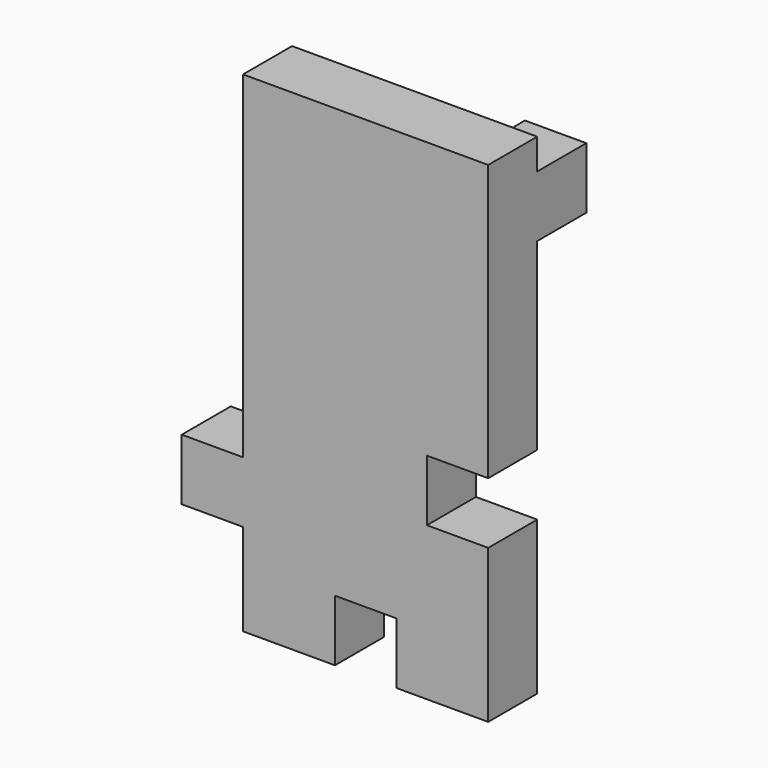
from build123d import *

# Parameters (mm, degrees)
F0_W     = 6.35
F0_H     = 6.35
F1_DEPTH = 6.35
F2_DEPTH = 6.35


with BuildPart() as f1:
    # F0 (on Front) → F1 (new body)
    with BuildSketch(Plane.XZ):
        Polygon((10.91065, 25.4), (-1.78935, 25.4), (-14.48935, 25.4), (-14.48935, 12.7), (-14.48935, 5.734982), (-14.48935, 0), (-14.48935, -9.525), (-20.83935, -9.525), (-20.83935, -15.875), (-14.48935, -15.875), (-14.48935, -25.4), (-4.96435, -25.4), (-4.96435, -19.05), (1.38565, -19.05), (1.38565, -25.4), (10.91065, -25.4), (10.91065, -15.875), (10.91065, -9.525), (4.56065, -9.525), (4.56065, -3.175), (10.91065, -3.175), (10.91065, 0), (10.91065, 15.875), (4.56065, 15.875), (4.56065, 22.225), (10.91065, 22.225), align=None)
        with Locations((7.73565, 19.05)):
            Rectangle(F0_W, F0_H)
    extrude(amount=F1_DEPTH)

    # F0 (on Front) → F2 (join, symmetric)
    with BuildSketch(Plane.XZ):
        with Locations((7.73565, 19.05)):
            Rectangle(F0_W, F0_H)
    extrude(amount=F2_DEPTH, both=True)


solid = f1.part
